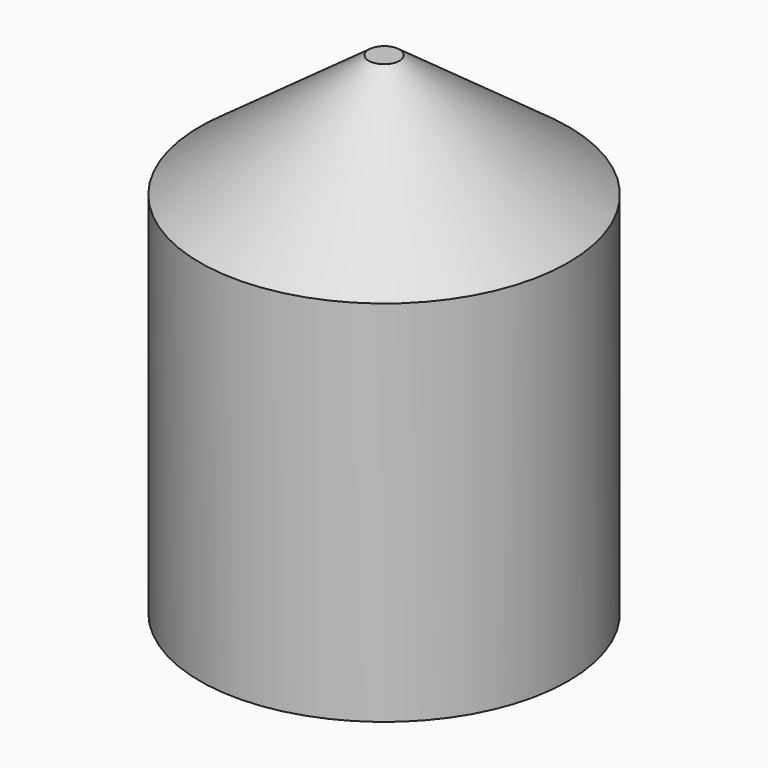
from build123d import *

# Parameters (mm, degrees)
F0_R      = 38.1
F1_DEPTH  = 76.2
F3_R      = 3.175
F1_FACE_R = 38.1


with BuildPart() as f1:
    # F0 (on Top) → F1 (new body)
    with BuildSketch(Plane.XY):
        Circle(F0_R)
    extrude(amount=F1_DEPTH)

    # F3 (on offset) → F4 section 0
    with BuildSketch(Plane.XY.offset(101.6)):
        Circle(F3_R)
    # F1_face (on face) → F4 section 1
    with BuildSketch(Plane.XY.offset(76.2)):
        Circle(F1_FACE_R)
    loft()


solid = f1.part
